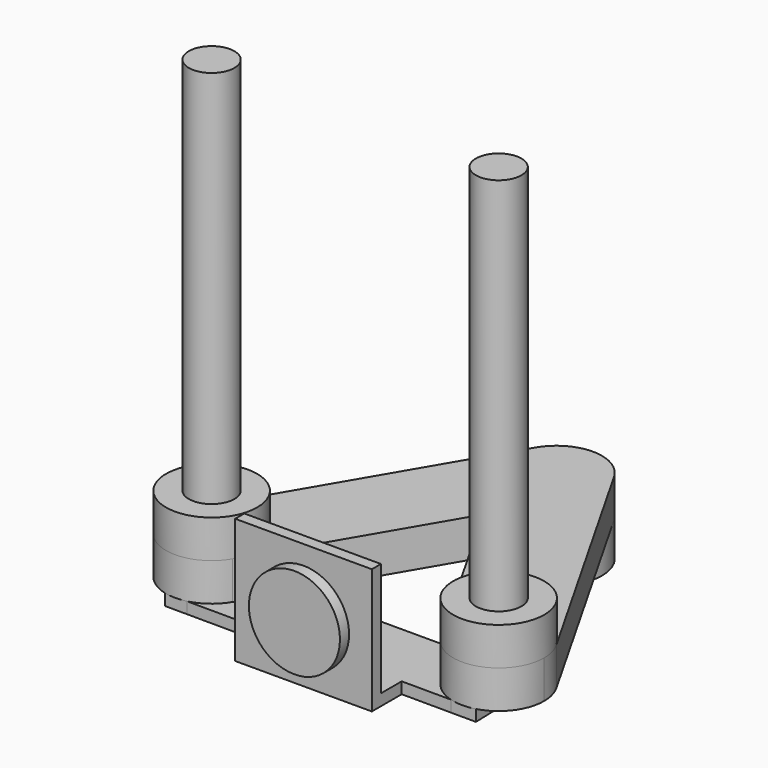
from build123d import *

# Parameters (mm, degrees)
F1_DEPTH  = 5
F2_R      = 6
F3_DEPTH  = 5
F4_R      = 6
F4_R_2    = 3
F5_DEPTH  = 5
F6_R      = 3
F7_DEPTH  = 50
F9_DEPTH  = 1.5
F10_W     = 18
F10_H     = 5
F11_DEPTH = 1.5
F12_W     = 15
F12_H     = 1.5
F13_DEPTH = 15
F12_W_2   = 18
F14_R     = 5.6748584426
F15_DEPTH = 1
F16_R     = 6
F17_DEPTH = 1.5


with BuildPart() as f1:
    # F0 (on Top) → F1 (new body)
    with BuildSketch(Plane.XY):
        with BuildLine():
            ThreePointArc((43.2805742568, 2.8056639072), (45.5251597381, 10.9886851107), (53.7081809416, 8.7440996295))
            Line((53.7081809416, 8.7440996295), (34.9031344877, 41.7648541313))
            ThreePointArc((34.9031344877, 41.7648541313), (35.4894526981, 40.3314064264), (35.6893311454, 38.7956362701))
            ThreePointArc((35.6893311454, 38.7956362701), (28.1192276696, 33.004714489), (24.5110727869, 41.826418409))
            Line((24.5110727869, 41.826418409), (5.3161192408, 9.0307821389))
            ThreePointArc((5.3161192408, 9.0307821389), (12.064481075, 11.7909217811), (16.4943775992, 6))
            ThreePointArc((16.4943775992, 6), (16.2852993804, 4.4298965242), (15.6726359577, 2.9692178611))
            Line((15.6726359577, 2.9692178611), (29.6182436723, 26.796057404))
            Line((29.6182436723, 26.796057404), (43.2805742568, 2.8056639072))
        make_face()
        with BuildLine():
            ThreePointArc((54.4943775992, 5.7748817683), (54.294499152, 7.3106519246), (53.7081809416, 8.7440996295))
            ThreePointArc((53.7081809416, 8.7440996295), (45.5251597381, 10.9886851107), (43.2805742568, 2.8056639072))
            ThreePointArc((43.2805742568, 2.8056639072), (50.0301477555, -0.0252397845), (54.4943775992, 5.7748817683))
        make_face()
        with BuildLine():
            ThreePointArc((35.6893311454, 38.7956362701), (35.4894526981, 40.3314064264), (34.9031344877, 41.7648541313))
            ThreePointArc((34.9031344877, 41.7648541313), (29.7248755056, 44.7955309857), (24.5110727869, 41.826418409))
            ThreePointArc((24.5110727869, 41.826418409), (28.1192276696, 33.004714489), (35.6893311454, 38.7956362701))
        make_face()
        with BuildLine():
            ThreePointArc((16.4943775992, 6), (12.064481075, 11.7909217811), (5.3161192408, 9.0307821389))
            ThreePointArc((5.3161192408, 9.0307821389), (7.4635954604, 0.8217416416), (15.6726359577, 2.9692178611))
            ThreePointArc((15.6726359577, 2.9692178611), (16.2852993804, 4.4298965242), (16.4943775992, 6))
        make_face()
    extrude(amount=F1_DEPTH)

    # F2 (on face) → F3 (join)
    with BuildSketch(Plane(origin=(0, 0, 0), x_dir=(1, 0, 0), z_dir=(0, 0, -1))):
        with Locations((29.6893311454, -38.7956362701)):
            Circle(F2_R)
    extrude(amount=F3_DEPTH)

    # F4 (on face) → F5 (join)
    with BuildSketch(Plane.XY.offset(5)):
        with Locations((10.4943775992, 6)):
            Circle(F4_R)
        with Locations((10.4943775992, 6)):
            Circle(F4_R_2, mode=Mode.SUBTRACT)
        with Locations((48.4943775992, 5.7748817683)):
            Circle(F4_R)
        with Locations((48.4943775992, 5.7748817683)):
            Circle(F4_R_2, mode=Mode.SUBTRACT)
    extrude(amount=F5_DEPTH)

    # F8 (on face) → F9 (join)
    with BuildSketch(Plane(origin=(0, 0, 0), x_dir=(1, 0, 0), z_dir=(0, 0, -1))):
        with BuildLine():
            Line((49.8381815851, -9.1067121526), (50.1224871047, 0))
            Line((50.1224871047, 0), (46.8152641434, -0.014623267))
            ThreePointArc((46.8152641434, -0.014623267), (44.77610482, -1.0659065571), (43.2805742568, -2.8056639072))
            Line((43.2805742568, -2.8056639072), (39.69217942, -9.1067121526))
            Line((39.69217942, -9.1067121526), (49.8381815851, -9.1067121526))
        make_face()
        with BuildLine():
            ThreePointArc((15.6726359577, -2.9692178611), (14.075500288, -1.1858998465), (11.9082632669, -0.1689685888))
            Line((11.9082632669, -0.1689685888), (9.0289830705, -0.1816996575))
            Line((9.0289830705, -0.1816996575), (9.0684460404, -9.1067121526))
            Line((9.0684460404, -9.1067121526), (19.2648491669, -9.1067121526))
            Line((19.2648491669, -9.1067121526), (15.6726359577, -2.9692178611))
        make_face()
        with BuildLine():
            ThreePointArc((43.2805742568, -2.8056639072), (44.77610482, -1.0659065571), (46.8152641434, -0.014623267))
            Line((46.8152641434, -0.014623267), (11.9082632669, -0.1689685888))
            ThreePointArc((11.9082632669, -0.1689685888), (14.075500288, -1.1858998465), (15.6726359577, -2.9692178611))
            Line((15.6726359577, -2.9692178611), (19.2648491669, -9.1067121526))
            Line((19.2648491669, -9.1067121526), (39.69217942, -9.1067121526))
            Line((39.69217942, -9.1067121526), (43.2805742568, -2.8056639072))
        make_face()
    extrude(amount=F9_DEPTH)

    # F10 (on face) → F11 (join)
    with BuildSketch(Plane(origin=(0, 0, -1.5), x_dir=(1, 0, 0), z_dir=(0, 0, -1))):
        with Locations((31.3069072107, 2.3770102122)):
            Rectangle(F10_W, F10_H)
    extrude(amount=-F11_DEPTH)

    # F12 (on face) → F13, piece 2 (join)
    with BuildSketch(Plane.XY):
        with Locations((31.3069072107, -4.1270102122)):
            Rectangle(F12_W_2, F12_H)
    extrude(amount=F13_DEPTH)

    # F16 (on face) → F17 (join)
    with BuildSketch(Plane.XZ.offset(4.8770102122)):
        with Locations((31.3069072107, 6.4893988892)):
            Circle(F16_R)
    extrude(amount=F17_DEPTH)


with BuildPart() as f7:
    # F6 (on face) → F7 (new body)
    with BuildSketch(Plane.XY.offset(10)):
        with Locations((48.4943775992, 5.7748817683)):
            Circle(F6_R)
    extrude(amount=F7_DEPTH)


with BuildPart() as f7b:
    # F6 (on face) → F7, piece 2 (new body)
    with BuildSketch(Plane.XY.offset(10)):
        with Locations((10.4943775992, 6)):
            Circle(F6_R)
    extrude(amount=F7_DEPTH)


with BuildPart() as f13:
    # F12 (on face) → F13 (new body)
    with BuildSketch(Plane.XY):
        with Locations((2585.3193696775, -10.4265026783)):
            Rectangle(F12_W, F12_H)
    extrude(amount=F13_DEPTH)

    # F14 (on face) → F15 (join)
    with BuildSketch(Plane.XZ.offset(11.1765026783)):
        with Locations((2585.3193696775, 7.1355714463)):
            Circle(F14_R)
    extrude(amount=F15_DEPTH)


solid = Compound([f1.part, f7.part, f7b.part])
